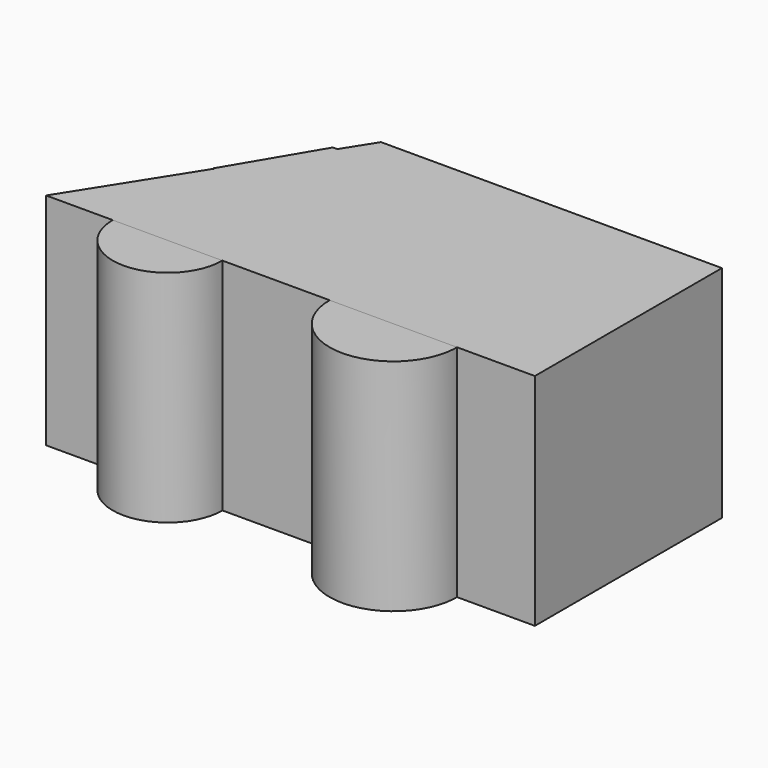
from build123d import *

# Parameters (mm, degrees)
F2_DEPTH = 25.4
F4_DEPTH = 25.4


with BuildPart() as f2:
    # F0 (on Top) → F2 (new body)
    with BuildSketch(Plane.XY):
        with BuildLine():
            ThreePointArc((-18.0518868453, 0), (-11.7181707174, -6.3337161279), (-5.3844545894, 0))
            Line((-5.3844545894, 0), (-18.0518868453, 0))
        make_face()
        with BuildLine():
            Line((-18.0518868453, 0), (-5.3844545894, 0))
            ThreePointArc((-5.3844545894, 0), (-11.7181707174, 6.3337161279), (-18.0518868453, 0))
        make_face()
    extrude(amount=F2_DEPTH)


with BuildPart() as f2b:
    # F0 (on Top) → F2, piece 2 (new body)
    with BuildSketch(Plane.XY):
        with BuildLine():
            Line((6.9938381141, 0), (21.7132452005, 0))
            ThreePointArc((21.7132452005, 0), (14.3535416573, 7.3597035432), (6.9938381141, 0))
        make_face()
        with BuildLine():
            ThreePointArc((6.9938381141, 0), (14.3535416573, -7.3597035432), (21.7132452005, 0))
            Line((21.7132452005, 0), (6.9938381141, 0))
        make_face()
    extrude(amount=F2_DEPTH)


with BuildPart() as f4:
    # F3 (on face) → F4 (new body)
    with BuildSketch(Plane.XY):
        Polygon((-17.1637815215, 13.5726276785), (-6.5856352448, 13.5726276785), (-6.5856352448, 23.4798770398), (-10.8975384576, 23.4798770398), align=None)
        Polygon((-6.5856352448, 23.4798770398), (-6.5856352448, 13.5726276785), (-17.1637815215, 13.5726276785), (-25.7483422756, 0), (30.6969136, 0), (30.6969136, 26.9995592535), (-8.6713721976, 26.9995592535), (-10.8975384576, 23.4798770398), align=None)
        Polygon((-17.275037244, 13.5726276785), (-17.1637815215, 13.5726276785), (-10.8975384576, 23.4798770398), (-11.4089017734, 23.4798770398), align=None)
    extrude(amount=F4_DEPTH)


solid = Compound([f2.part, f2b.part, f4.part])
